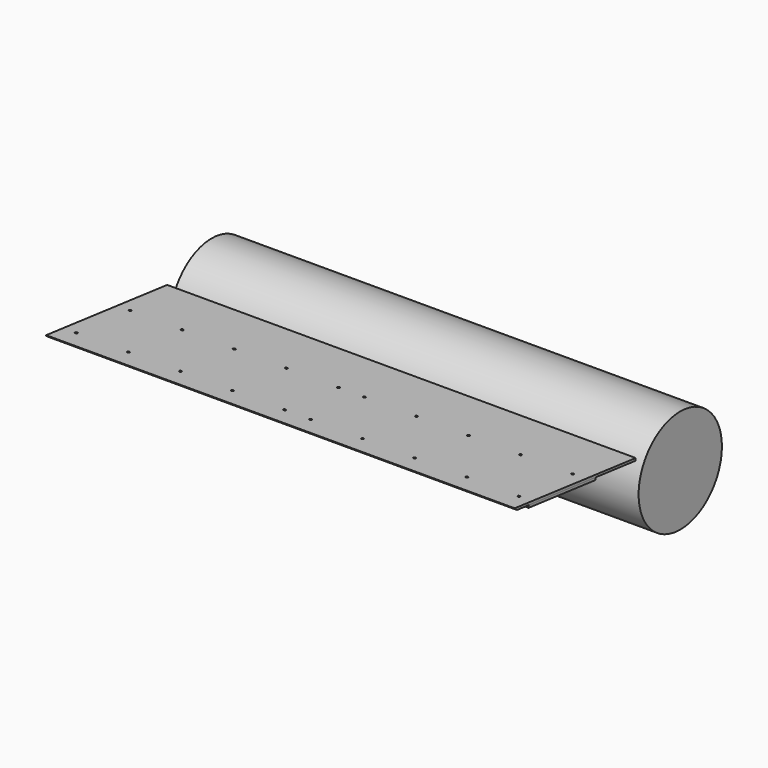
from build123d import *

# Parameters (mm, degrees)
F1_DEPTH = 900
F3_D     = 9.5
F4_W     = 1800
F4_H     = 69.0146608255
F4_H_2   = 323.9853391745
F4_R     = 4.75
F4_H_3   = 192
F5_DEPTH = 9
F6_SIZE2 = 6.9282032303
F6_SIZE  = 12
F7_R     = 200
F8_DEPTH = 900


with BuildPart() as f1:
    # F0 (on Right) → F1 (new body, symmetric)
    with BuildSketch(Plane.YZ):
        Polygon((160.5, 117.2), (-161.4, 153.9), (-162.4194905758, 144.9579287094), (159.4805094242, 108.2579287094), align=None)
    extrude(amount=F1_DEPTH, both=True)

    # F3 (through all)
    with Locations(Plane(origin=(0, 15.2500559798, 133.7600277898), x_dir=(1, 0, 0), z_dir=(0, 0.1132767306, 0.9935634767))):
        with Locations((850, -163.8090948168), (650, -163.8090948168), (450, -163.8090948168), (250, -163.8090948168), (50, -163.8090948168), (-50, -163.8090948168), (-250, -163.8090948168), (-450, -163.8090948168), (-650, -163.8090948168), (-850, -163.8090948168), (-850, 96.1909051832), (-650, 96.1909051832), (-450, 96.1909051832), (-250, 96.1909051832), (-50, 96.1909051832), (50, 96.1909051832), (250, 96.1909051832), (450, 96.1909051832), (650, 96.1909051832), (850, 96.1909051832)):
            Hole(F3_D / 2)


with BuildPart() as f5:
    # F4 (on face) → F5 (new body)
    with BuildSketch(Plane(origin=(0, 15.2500559798, 133.7600277898), x_dir=(1, 0, 0), z_dir=(0, 0.1132767306, 0.9935634767))):
        with Locations((0, -212.301764404)):
            Rectangle(F4_W, F4_H)
        with Locations((0, -15.801764404)):
            Rectangle(F4_W, F4_H_2)
        with Locations((-850, -163.8090948168)):
            Circle(F4_R, mode=Mode.SUBTRACT)
        with Locations((-650, -163.8090948168)):
            Circle(F4_R, mode=Mode.SUBTRACT)
        with Locations((-450, -163.8090948168)):
            Circle(F4_R, mode=Mode.SUBTRACT)
        with Locations((-250, -163.8090948168)):
            Circle(F4_R, mode=Mode.SUBTRACT)
        with Locations((-50, -163.8090948168)):
            Circle(F4_R, mode=Mode.SUBTRACT)
        with Locations((50, -163.8090948168)):
            Circle(F4_R, mode=Mode.SUBTRACT)
        with Locations((250, -163.8090948168)):
            Circle(F4_R, mode=Mode.SUBTRACT)
        with Locations((450, -163.8090948168)):
            Circle(F4_R, mode=Mode.SUBTRACT)
        with Locations((650, -163.8090948168)):
            Circle(F4_R, mode=Mode.SUBTRACT)
        with Locations((850, -163.8090948168)):
            Circle(F4_R, mode=Mode.SUBTRACT)
        with Locations((-850, 96.1909051832)):
            Circle(F4_R, mode=Mode.SUBTRACT)
        with Locations((-650, 96.1909051832)):
            Circle(F4_R, mode=Mode.SUBTRACT)
        with Locations((-450, 96.1909051832)):
            Circle(F4_R, mode=Mode.SUBTRACT)
        with Locations((-250, 96.1909051832)):
            Circle(F4_R, mode=Mode.SUBTRACT)
        with Locations((-50, 96.1909051832)):
            Circle(F4_R, mode=Mode.SUBTRACT)
        with Locations((50, 96.1909051832)):
            Circle(F4_R, mode=Mode.SUBTRACT)
        with Locations((250, 96.1909051832)):
            Circle(F4_R, mode=Mode.SUBTRACT)
        with Locations((450, 96.1909051832)):
            Circle(F4_R, mode=Mode.SUBTRACT)
        with Locations((650, 96.1909051832)):
            Circle(F4_R, mode=Mode.SUBTRACT)
        with Locations((850, 96.1909051832)):
            Circle(F4_R, mode=Mode.SUBTRACT)
        with Locations((0, 242.1909051832)):
            Rectangle(F4_W, F4_H_3)
    extrude(amount=F5_DEPTH)

    # F6
    f6_edges = [f5.edges().sort_by_distance(p)[0] for p in [
        (0, -229.970446, 161.717755),
    ]]
    f6_side = f5.faces().sort_by_distance((0, 60.753355, 128.572171))[0]
    chamfer(f6_edges, length=F6_SIZE, length2=F6_SIZE2, reference=f6_side)


with BuildPart() as f8:
    # F7 (on Right) → F8 (new body, symmetric)
    with BuildSketch(Plane.YZ):
        with Locations((566.0490442206, -24.8401735642)):
            Circle(F7_R)
    extrude(amount=F8_DEPTH, both=True)


solid = Compound([f1.part, f5.part, f8.part])
